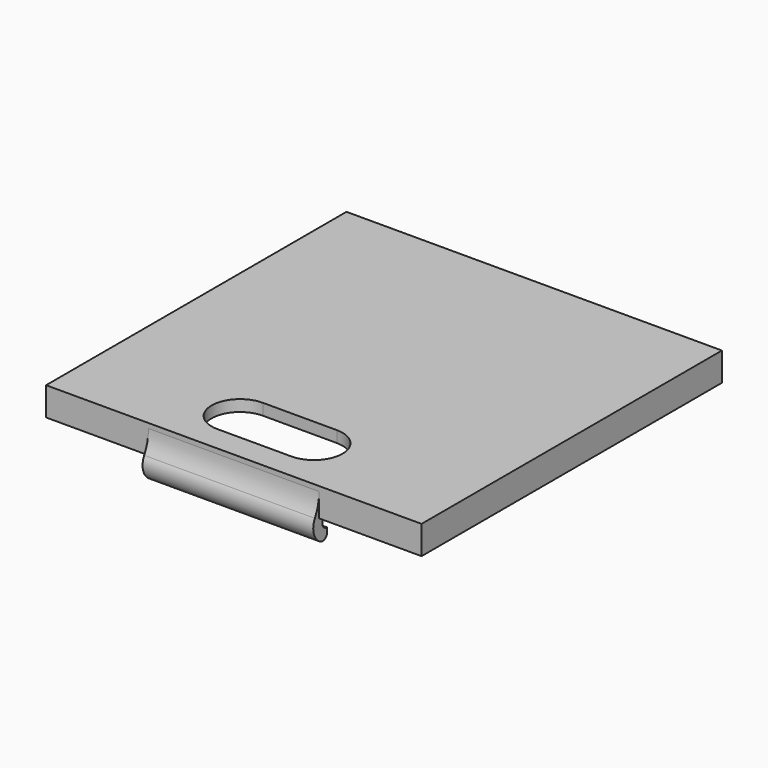
from build123d import *

# Parameters (mm, degrees)
SKETCH_W        = 66
SKETCH_H        = 66
PAD_DEPTH       = 5
SKETCH001_W     = 62.5
SKETCH001_H     = 62.5
POCKET_DEPTH    = 3
POCKET001_DEPTH = 2
PAD001_DEPTH    = 15
FILLET_R        = 1
FILLET001_R     = 1
FILLET002_R     = 8
FILLET003_R     = 8


with BuildPart() as part:
    # Sketch → Pad (new body)
    with BuildSketch(Plane.XY):
        Rectangle(SKETCH_W, SKETCH_H)
    extrude(amount=PAD_DEPTH)

    # Sketch001 (on Face5 of Pad) → Pocket (cut)
    with BuildSketch(Plane(origin=(0, 0, 0), x_dir=(1, 0, 0), z_dir=(0, 0, -1))):
        Rectangle(SKETCH001_W, SKETCH001_H)
    extrude(amount=-POCKET_DEPTH, mode=Mode.SUBTRACT)

    # Sketch002 (on Face5 of Pocket) → Pocket001 (cut)
    with BuildSketch(Plane.XY.offset(5)):
        with BuildLine():
            ThreePointArc((-6.5, -18.5), (-11.5, -23.5), (-6.5, -28.5))
            Line((-6.5, -28.5), (6.5, -28.5))
            ThreePointArc((6.5, -28.5), (11.5, -23.5), (6.5, -18.5))
            Line((6.5, -18.5), (-6.5, -18.5))
        make_face()
    extrude(amount=-POCKET001_DEPTH, mode=Mode.SUBTRACT)

    # Sketch003 (on DatumPlane) → Pad001 (join, symmetric)
    with BuildSketch(Plane(origin=(0, -33, 5), x_dir=(0, 1, 0), z_dir=(1, 0, 0))):
        with BuildLine():
            ThreePointArc((1.75, -5), (0.7, -6.05), (1.75, -7.1))
            Line((1.75, -7.1), (1.75, -9.1))
            ThreePointArc((1.75, -3), (-1.3, -6.05), (1.75, -9.1))
            Line((1.75, -5), (1.75, -3))
        make_face()
        with BuildLine():
            ThreePointArc((64.25, -7.1), (65.3, -6.05), (64.25, -5))
            Line((64.25, -5), (64.25, -3))
            ThreePointArc((64.25, -9.1), (67.3, -6.05), (64.25, -3))
            Line((64.25, -7.1), (64.25, -9.1))
        make_face()
    extrude(amount=PAD001_DEPTH, both=True)

    # Fillet
    fillet_edges = [part.edges().sort_by_distance(p)[0] for p in [
        (0, 31.25, -4.1),
    ]]
    fillet(fillet_edges, radius=FILLET_R)

    # Fillet001
    fillet001_edges = [part.edges().sort_by_distance(p)[0] for p in [
        (0, -31.25, -4.1),
    ]]
    fillet(fillet001_edges, radius=FILLET001_R)

    # Fillet002
    fillet002_edges = [part.edges().sort_by_distance(p)[0] for p in [
        (0, -33, 1.447999),
    ]]
    fillet(fillet002_edges, radius=FILLET002_R)

    # Fillet003
    fillet003_edges = [part.edges().sort_by_distance(p)[0] for p in [
        (0, 33, 1.447999),
    ]]
    fillet(fillet003_edges, radius=FILLET003_R)


solid = part.part
